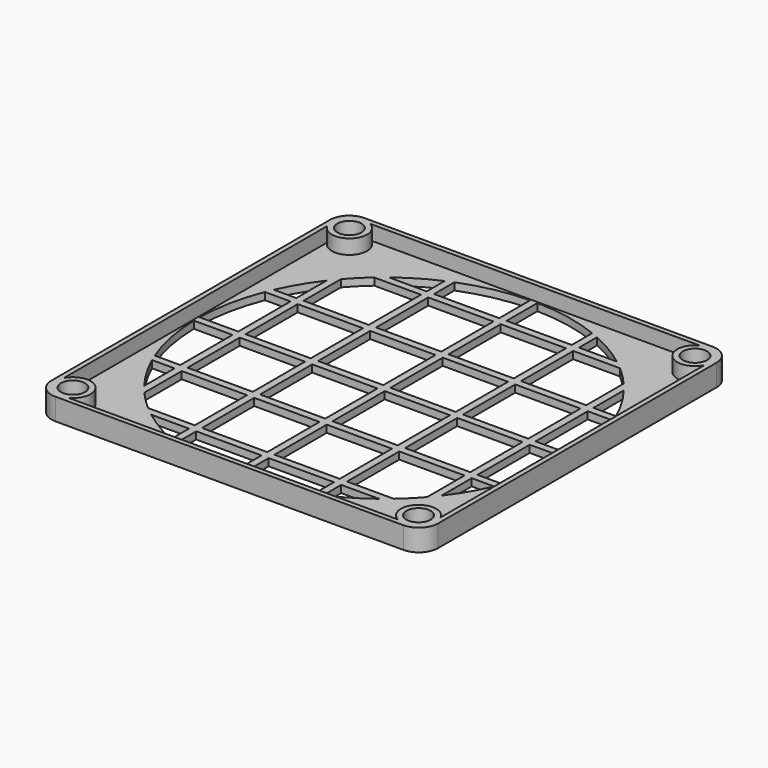
from build123d import *

# Parameters (mm, degrees)
SKETCH006_R            = 2.5
SKETCH006_R_2          = 38.75
PAD004_DEPTH           = 1.5
SKETCH007_W            = 1.5
SKETCH007_H            = 80
PAD005_DEPTH           = 1.5
LINEARPATTERN002_COUNT = 5
LINEARPATTERN002_PITCH = 15
SKETCH008_W            = 80
SKETCH008_H            = 1.5
PAD006_DEPTH           = 1.5
LINEARPATTERN003_COUNT = 5
LINEARPATTERN003_PITCH = 15
PAD007_DEPTH           = 3
SKETCH033_R            = 3.646447
SKETCH033_R_2          = 2.5
PAD017_DEPTH           = 3


with BuildPart() as part:
    # Sketch006 → Pad004 (new body)
    with BuildSketch(Plane.XY):
        with BuildLine():
            Line((40, -36), (40, 36))
            ThreePointArc((40, 36), (38.828427, 38.828427), (36, 40))
            Line((36, 40), (-36, 40))
            ThreePointArc((-36, 40), (-38.828427, 38.828427), (-40, 36))
            Line((-40, 36), (-40, -36))
            ThreePointArc((-40, -36), (-38.828427, -38.828427), (-36, -40))
            Line((-36, -40), (36, -40))
            ThreePointArc((36, -40), (38.828427, -38.828427), (40, -36))
        make_face()
        with Locations((-35.75, 35.75)):
            Circle(SKETCH006_R, mode=Mode.SUBTRACT)
        with Locations((35.75, 35.75)):
            Circle(SKETCH006_R, mode=Mode.SUBTRACT)
        with Locations((35.75, -35.75)):
            Circle(SKETCH006_R, mode=Mode.SUBTRACT)
        with Locations((-35.75, -35.75)):
            Circle(SKETCH006_R, mode=Mode.SUBTRACT)
        Circle(SKETCH006_R_2, mode=Mode.SUBTRACT)
    extrude(amount=PAD004_DEPTH)

    # Sketch007 → Pad005 (join)
    with BuildSketch(Plane.XY):
        with Locations((-30, 0)):
            Rectangle(SKETCH007_W, SKETCH007_H)
    pad005 = extrude(amount=PAD005_DEPTH)

    # LinearPattern002: Pad005 ×5
    with Locations(*[(i * LINEARPATTERN002_PITCH, 0, 0) for i in range(1, LINEARPATTERN002_COUNT)]):
        add(pad005)

    # Sketch008 → Pad006 (join)
    with BuildSketch(Plane.XY):
        with Locations((0, -30)):
            Rectangle(SKETCH008_W, SKETCH008_H)
    pad006 = extrude(amount=PAD006_DEPTH)

    # LinearPattern003: Pad006 ×5
    with Locations(*[(0, i * LINEARPATTERN003_PITCH, 0) for i in range(1, LINEARPATTERN003_COUNT)]):
        add(pad006)

    # Sketch009 (on Face137 of LinearPattern003) → Pad007 (join)
    with BuildSketch(Plane.XY.offset(1.5)):
        with BuildLine():
            Line((-40, 36), (-40, -36))
            ThreePointArc((-40, -36), (-38.828427, -38.828427), (-36, -40))
            Line((-36, -40), (36, -40))
            ThreePointArc((36, -40), (38.828427, -38.828427), (40, -36))
            Line((40, -36), (40, 36))
            ThreePointArc((40, 36), (38.828427, 38.828427), (36, 40))
            Line((36, 40), (-36, 40))
            ThreePointArc((-36, 40), (-38.828427, 38.828427), (-40, 36))
        make_face()
        with BuildLine():
            Line((-39, 36), (-39, -36))
            ThreePointArc((-39, -36), (-38.12132, -38.12132), (-36, -39))
            Line((-36, -39), (36, -39))
            ThreePointArc((36, -39), (38.12132, -38.12132), (39, -36))
            Line((39, -36), (39, 36))
            ThreePointArc((39, 36), (38.12132, 38.12132), (36, 39))
            Line((36, 39), (-36, 39))
            ThreePointArc((-36, 39), (-38.12132, 38.12132), (-39, 36))
        make_face(mode=Mode.SUBTRACT)
    extrude(amount=PAD007_DEPTH)

    # Sketch033 (on Face130 of Pad007) → Pad017 (join)
    with BuildSketch(Plane.XY.offset(1.5)):
        with Locations((35.75, 35.75)):
            Circle(SKETCH033_R)
        with Locations((35.75, 35.75)):
            Circle(SKETCH033_R_2, mode=Mode.SUBTRACT)
        with Locations((-35.75, 35.75)):
            Circle(SKETCH033_R)
        with Locations((-35.75, 35.75)):
            Circle(SKETCH033_R_2, mode=Mode.SUBTRACT)
        with Locations((-35.75, -35.75)):
            Circle(SKETCH033_R)
        with Locations((-35.75, -35.75)):
            Circle(SKETCH033_R_2, mode=Mode.SUBTRACT)
        with Locations((35.75, -35.75)):
            Circle(SKETCH033_R)
        with Locations((35.75, -35.75)):
            Circle(SKETCH033_R_2, mode=Mode.SUBTRACT)
    extrude(amount=PAD017_DEPTH)


solid = part.part
